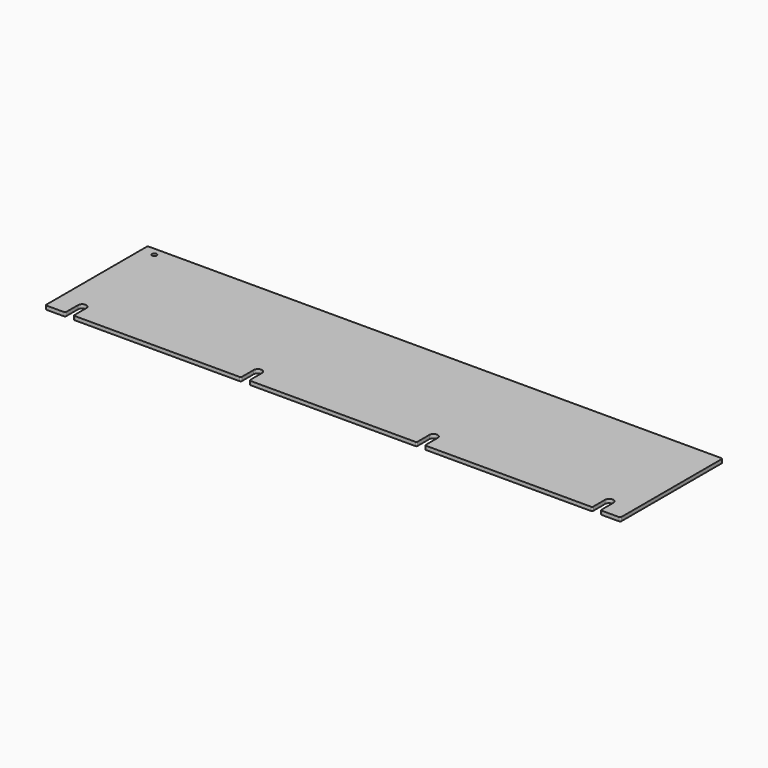
from build123d import *

# Parameters (mm, degrees)
SKETCH_R  = 1.8288
PAD_DEPTH = 3


with BuildPart() as part:
    # Sketch → Pad (new body)
    with BuildSketch(Plane.XY):
        with BuildLine():
            ThreePointArc((-227.6, 50.8), (-228.307107, 50.507107), (-228.6, 49.8))
            Line((-228.6, -49.8), (-228.6, 49.8))
            ThreePointArc((-228.6, -49.8), (-228.307107, -50.507107), (-227.6, -50.8))
            Line((-227.6, -50.8), (-213.852, -50.8))
            ThreePointArc((-213.852, -50.8), (-213.144893, -50.507107), (-212.852, -49.8))
            Line((-212.852, -38.1), (-212.852, -49.8))
            ThreePointArc((-206.248, -38.1), (-209.55, -34.798), (-212.852, -38.1))
            Line((-206.248, -38.1), (-206.248, -49.8))
            ThreePointArc((-206.248, -49.8), (-205.955107, -50.507107), (-205.248, -50.8))
            Line((-205.248, -50.8), (-74.152, -50.8))
            ThreePointArc((-74.152, -50.8), (-73.444893, -50.507107), (-73.152, -49.8))
            Line((-73.152, -38.1), (-73.152, -49.8))
            ThreePointArc((-66.548, -38.1), (-69.85, -34.798), (-73.152, -38.1))
            Line((-66.548, -38.1), (-66.548, -49.8))
            ThreePointArc((-66.548, -49.8), (-66.255107, -50.507107), (-65.548, -50.8))
            Line((-65.548, -50.8), (65.548, -50.8))
            ThreePointArc((65.548, -50.8), (66.255107, -50.507107), (66.548, -49.8))
            Line((66.548, -38.1), (66.548, -49.8))
            ThreePointArc((73.152, -38.1), (69.85, -34.798), (66.548, -38.1))
            Line((73.152, -38.1), (73.152, -49.8))
            ThreePointArc((73.152, -49.8), (73.444893, -50.507107), (74.152, -50.8))
            Line((74.152, -50.8), (205.248, -50.8))
            ThreePointArc((205.248, -50.8), (205.955107, -50.507107), (206.248, -49.8))
            Line((206.248, -38.1), (206.248, -49.8))
            ThreePointArc((212.852, -38.1), (209.55, -34.798), (206.248, -38.1))
            Line((212.852, -38.1), (212.852, -49.8))
            ThreePointArc((212.852, -49.8), (213.144893, -50.507107), (213.852, -50.8))
            Line((213.852, -50.8), (227.6, -50.8))
            ThreePointArc((227.6, -50.8), (228.307107, -50.507107), (228.6, -49.8))
            Line((228.6, 49.8), (228.6, -49.8))
            ThreePointArc((228.6, 49.8), (228.307107, 50.507107), (227.6, 50.8))
            Line((-227.6, 50.8), (227.6, 50.8))
        make_face()
        with Locations((-218.1352, 44.45)):
            Circle(SKETCH_R, mode=Mode.SUBTRACT)
    extrude(amount=PAD_DEPTH)


solid = part.part
